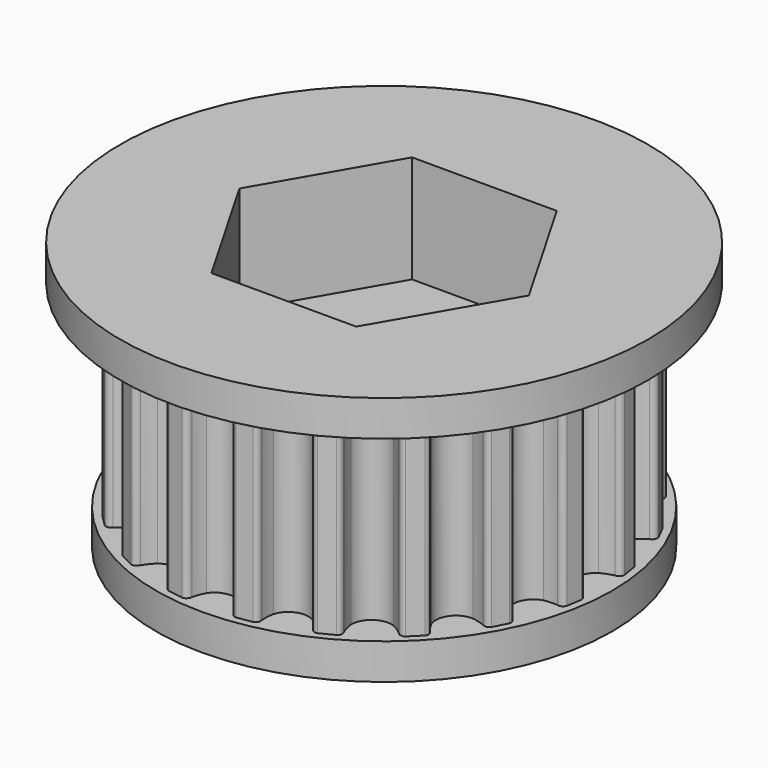
from build123d import *

# Parameters (mm, degrees)
SKETCHGEAR_R   = 1.5
PAD_DEPTH      = 6.5
SKETCHBASE_R   = 6.37
SKETCHBASE_R_2 = 1.5
PADBASE_DEPTH  = 1
SKETCHTOP_R    = 7.37
SKETCHTOP_R_2  = 1.5
PADTOP_DEPTH   = 1
POCKET_DEPTH   = 3


with BuildPart() as part:
    # SketchGear → Pad (new body)
    with BuildSketch(Plane.XY):
        with BuildLine():
            ThreePointArc((6.112198, -0.75), (6.068264, -0.643934), (5.962198, -0.6))
            ThreePointArc((5.962198, -0.6), (5.782909, -0.544218), (5.612198, -0.466025))
            ThreePointArc((5.612198, -0.466025), (5.362198, 0), (5.612198, 0.466025))
            ThreePointArc((5.612198, 0.466025), (5.782909, 0.544218), (5.962198, 0.6))
            ThreePointArc((5.962198, 0.6), (6.068264, 0.643934), (6.112198, 0.75))
            Line((6.112198, 0.75), (6.044808, 1.175481))
            ThreePointArc((6.044808, 1.175481), (5.970248, 1.262779), (5.855797, 1.271787))
            ThreePointArc((5.855797, 1.271787), (5.668045, 1.269435), (5.481527, 1.291048))
            ThreePointArc((5.481527, 1.291048), (5.099753, 1.65701), (5.193507, 2.177481))
            ThreePointArc((5.193507, 2.177481), (5.331701, 2.304599), (5.484977, 2.413054))
            ThreePointArc((5.484977, 2.413054), (5.572275, 2.487614), (5.581283, 2.602065))
            Line((5.581283, 2.602065), (5.385711, 2.985897))
            ThreePointArc((5.385711, 2.985897), (5.287823, 3.045882), (5.17619, 3.019082))
            ThreePointArc((5.17619, 3.019082), (4.998354, 2.958827), (4.814286, 2.921745))
            ThreePointArc((4.814286, 2.921745), (4.338109, 3.151821), (4.26644, 3.67579))
            ThreePointArc((4.26644, 3.67579), (4.358588, 3.83939), (4.470848, 3.989902))
            ThreePointArc((4.470848, 3.989902), (4.530834, 4.087789), (4.504033, 4.199422))
            Line((4.504033, 4.199422), (4.199422, 4.504033))
            ThreePointArc((4.199422, 4.504033), (4.087789, 4.530834), (3.989902, 4.470848))
            ThreePointArc((3.989902, 4.470848), (3.83939, 4.358588), (3.67579, 4.26644))
            ThreePointArc((3.67579, 4.26644), (3.151821, 4.338109), (2.921745, 4.814286))
            ThreePointArc((2.921745, 4.814286), (2.958827, 4.998354), (3.019082, 5.17619))
            ThreePointArc((3.019082, 5.17619), (3.045882, 5.287823), (2.985897, 5.385711))
            Line((2.985897, 5.385711), (2.602065, 5.581283))
            ThreePointArc((2.602065, 5.581283), (2.487614, 5.572275), (2.413054, 5.484977))
            ThreePointArc((2.413054, 5.484977), (2.304599, 5.331701), (2.177481, 5.193507))
            ThreePointArc((2.177481, 5.193507), (1.65701, 5.099753), (1.291048, 5.481527))
            ThreePointArc((1.291048, 5.481527), (1.269435, 5.668045), (1.271787, 5.855797))
            ThreePointArc((1.271787, 5.855797), (1.262779, 5.970248), (1.175481, 6.044808))
            Line((1.175481, 6.044808), (0.75, 6.112198))
            ThreePointArc((0.75, 6.112198), (0.643934, 6.068264), (0.6, 5.962198))
            ThreePointArc((0.6, 5.962198), (0.544218, 5.782909), (0.466025, 5.612198))
            ThreePointArc((0.466025, 5.612198), (0, 5.362198), (-0.466025, 5.612198))
            ThreePointArc((-0.466025, 5.612198), (-0.544218, 5.782909), (-0.6, 5.962198))
            ThreePointArc((-0.6, 5.962198), (-0.643934, 6.068264), (-0.75, 6.112198))
            Line((-0.75, 6.112198), (-1.175481, 6.044808))
            ThreePointArc((-1.175481, 6.044808), (-1.262779, 5.970248), (-1.271787, 5.855797))
            ThreePointArc((-1.271787, 5.855797), (-1.269435, 5.668045), (-1.291048, 5.481527))
            ThreePointArc((-1.291048, 5.481527), (-1.65701, 5.099753), (-2.177481, 5.193507))
            ThreePointArc((-2.177481, 5.193507), (-2.304599, 5.331701), (-2.413054, 5.484977))
            ThreePointArc((-2.413054, 5.484977), (-2.487614, 5.572275), (-2.602065, 5.581283))
            Line((-2.602065, 5.581283), (-2.985897, 5.385711))
            ThreePointArc((-2.985897, 5.385711), (-3.045882, 5.287823), (-3.019082, 5.17619))
            ThreePointArc((-3.019082, 5.17619), (-2.958827, 4.998354), (-2.921745, 4.814286))
            ThreePointArc((-2.921745, 4.814286), (-3.151821, 4.338109), (-3.67579, 4.26644))
            ThreePointArc((-3.67579, 4.26644), (-3.83939, 4.358588), (-3.989902, 4.470848))
            ThreePointArc((-3.989902, 4.470848), (-4.087789, 4.530834), (-4.199422, 4.504033))
            Line((-4.199422, 4.504033), (-4.504033, 4.199422))
            ThreePointArc((-4.504033, 4.199422), (-4.530834, 4.087789), (-4.470848, 3.989902))
            ThreePointArc((-4.470848, 3.989902), (-4.358588, 3.83939), (-4.26644, 3.67579))
            ThreePointArc((-4.26644, 3.67579), (-4.338109, 3.151821), (-4.814286, 2.921745))
            ThreePointArc((-4.814286, 2.921745), (-4.998354, 2.958827), (-5.17619, 3.019082))
            ThreePointArc((-5.17619, 3.019082), (-5.287823, 3.045882), (-5.385711, 2.985897))
            Line((-5.385711, 2.985897), (-5.581283, 2.602065))
            ThreePointArc((-5.581283, 2.602065), (-5.572275, 2.487614), (-5.484977, 2.413054))
            ThreePointArc((-5.484977, 2.413054), (-5.331701, 2.304599), (-5.193507, 2.177481))
            ThreePointArc((-5.193507, 2.177481), (-5.099753, 1.65701), (-5.481527, 1.291048))
            ThreePointArc((-5.481527, 1.291048), (-5.668045, 1.269435), (-5.855797, 1.271787))
            ThreePointArc((-5.855797, 1.271787), (-5.970248, 1.262779), (-6.044808, 1.175481))
            Line((-6.044808, 1.175481), (-6.112198, 0.75))
            ThreePointArc((-6.112198, 0.75), (-6.068264, 0.643934), (-5.962198, 0.6))
            ThreePointArc((-5.962198, 0.6), (-5.782909, 0.544218), (-5.612198, 0.466025))
            ThreePointArc((-5.612198, 0.466025), (-5.362198, 0), (-5.612198, -0.466025))
            ThreePointArc((-5.612198, -0.466025), (-5.782909, -0.544218), (-5.962198, -0.6))
            ThreePointArc((-5.962198, -0.6), (-6.068264, -0.643934), (-6.112198, -0.75))
            Line((-6.112198, -0.75), (-6.044808, -1.175481))
            ThreePointArc((-6.044808, -1.175481), (-5.970248, -1.262779), (-5.855797, -1.271787))
            ThreePointArc((-5.855797, -1.271787), (-5.668045, -1.269435), (-5.481527, -1.291048))
            ThreePointArc((-5.481527, -1.291048), (-5.099753, -1.65701), (-5.193507, -2.177481))
            ThreePointArc((-5.193507, -2.177481), (-5.331701, -2.304599), (-5.484977, -2.413054))
            ThreePointArc((-5.484977, -2.413054), (-5.572275, -2.487614), (-5.581283, -2.602065))
            Line((-5.581283, -2.602065), (-5.385711, -2.985897))
            ThreePointArc((-5.385711, -2.985897), (-5.287823, -3.045882), (-5.17619, -3.019082))
            ThreePointArc((-5.17619, -3.019082), (-4.998354, -2.958827), (-4.814286, -2.921745))
            ThreePointArc((-4.814286, -2.921745), (-4.338109, -3.151821), (-4.26644, -3.67579))
            ThreePointArc((-4.26644, -3.67579), (-4.358588, -3.83939), (-4.470848, -3.989902))
            ThreePointArc((-4.470848, -3.989902), (-4.530834, -4.087789), (-4.504033, -4.199422))
            Line((-4.504033, -4.199422), (-4.199422, -4.504033))
            ThreePointArc((-4.199422, -4.504033), (-4.087789, -4.530834), (-3.989902, -4.470848))
            ThreePointArc((-3.989902, -4.470848), (-3.83939, -4.358588), (-3.67579, -4.26644))
            ThreePointArc((-3.67579, -4.26644), (-3.151821, -4.338109), (-2.921745, -4.814286))
            ThreePointArc((-2.921745, -4.814286), (-2.958827, -4.998354), (-3.019082, -5.17619))
            ThreePointArc((-3.019082, -5.17619), (-3.045882, -5.287823), (-2.985897, -5.385711))
            Line((-2.985897, -5.385711), (-2.602065, -5.581283))
            ThreePointArc((-2.602065, -5.581283), (-2.487614, -5.572275), (-2.413054, -5.484977))
            ThreePointArc((-2.413054, -5.484977), (-2.304599, -5.331701), (-2.177481, -5.193507))
            ThreePointArc((-2.177481, -5.193507), (-1.65701, -5.099753), (-1.291048, -5.481527))
            ThreePointArc((-1.291048, -5.481527), (-1.269435, -5.668045), (-1.271787, -5.855797))
            ThreePointArc((-1.271787, -5.855797), (-1.262779, -5.970248), (-1.175481, -6.044808))
            Line((-1.175481, -6.044808), (-0.75, -6.112198))
            ThreePointArc((-0.75, -6.112198), (-0.643934, -6.068264), (-0.6, -5.962198))
            ThreePointArc((-0.6, -5.962198), (-0.544218, -5.782909), (-0.466025, -5.612198))
            ThreePointArc((-0.466025, -5.612198), (0, -5.362198), (0.466025, -5.612198))
            ThreePointArc((0.466025, -5.612198), (0.544218, -5.782909), (0.6, -5.962198))
            ThreePointArc((0.6, -5.962198), (0.643934, -6.068264), (0.75, -6.112198))
            Line((0.75, -6.112198), (1.175481, -6.044808))
            ThreePointArc((1.175481, -6.044808), (1.262779, -5.970248), (1.271787, -5.855797))
            ThreePointArc((1.271787, -5.855797), (1.269435, -5.668045), (1.291048, -5.481527))
            ThreePointArc((1.291048, -5.481527), (1.65701, -5.099753), (2.177481, -5.193507))
            ThreePointArc((2.177481, -5.193507), (2.304599, -5.331701), (2.413054, -5.484977))
            ThreePointArc((2.413054, -5.484977), (2.487614, -5.572275), (2.602065, -5.581283))
            Line((2.602065, -5.581283), (2.985897, -5.385711))
            ThreePointArc((2.985897, -5.385711), (3.045882, -5.287823), (3.019082, -5.17619))
            ThreePointArc((3.019082, -5.17619), (2.958827, -4.998354), (2.921745, -4.814286))
            ThreePointArc((2.921745, -4.814286), (3.151821, -4.338109), (3.67579, -4.26644))
            ThreePointArc((3.67579, -4.26644), (3.83939, -4.358588), (3.989902, -4.470848))
            ThreePointArc((3.989902, -4.470848), (4.087789, -4.530834), (4.199422, -4.504033))
            Line((4.199422, -4.504033), (4.504033, -4.199422))
            ThreePointArc((4.504033, -4.199422), (4.530834, -4.087789), (4.470848, -3.989902))
            ThreePointArc((4.470848, -3.989902), (4.358588, -3.83939), (4.26644, -3.67579))
            ThreePointArc((4.26644, -3.67579), (4.338109, -3.151821), (4.814286, -2.921745))
            ThreePointArc((4.814286, -2.921745), (4.998354, -2.958827), (5.17619, -3.019082))
            ThreePointArc((5.17619, -3.019082), (5.287823, -3.045882), (5.385711, -2.985897))
            Line((5.385711, -2.985897), (5.581283, -2.602065))
            ThreePointArc((5.581283, -2.602065), (5.572275, -2.487614), (5.484977, -2.413054))
            ThreePointArc((5.484977, -2.413054), (5.331701, -2.304599), (5.193507, -2.177481))
            ThreePointArc((5.193507, -2.177481), (5.099753, -1.65701), (5.481527, -1.291048))
            ThreePointArc((5.481527, -1.291048), (5.668045, -1.269435), (5.855797, -1.271787))
            ThreePointArc((5.855797, -1.271787), (5.970248, -1.262779), (6.044808, -1.175481))
            Line((6.044808, -1.175481), (6.112198, -0.75))
        make_face()
        Circle(SKETCHGEAR_R, mode=Mode.SUBTRACT)
    extrude(amount=PAD_DEPTH)

    # SketchBase → PadBase (join)
    with BuildSketch(Plane.XY):
        Circle(SKETCHBASE_R)
        Circle(SKETCHBASE_R_2, mode=Mode.SUBTRACT)
    extrude(amount=PADBASE_DEPTH)

    # SketchTop → PadTop (join)
    with BuildSketch(Plane.XY.offset(6.5)):
        Circle(SKETCHTOP_R)
        Circle(SKETCHTOP_R_2, mode=Mode.SUBTRACT)
    extrude(amount=PADTOP_DEPTH)

    # Sketch (on Face128 of PadTop) → Pocket (cut)
    with BuildSketch(Plane.XY.offset(7.5)):
        Polygon((2.020726, -3.5), (4.041452, 0), (2.020726, 3.5), (-2.020726, 3.5), (-4.041452, 0), (-2.020726, -3.5), align=None)
    extrude(amount=-POCKET_DEPTH, mode=Mode.SUBTRACT)


solid = part.part
